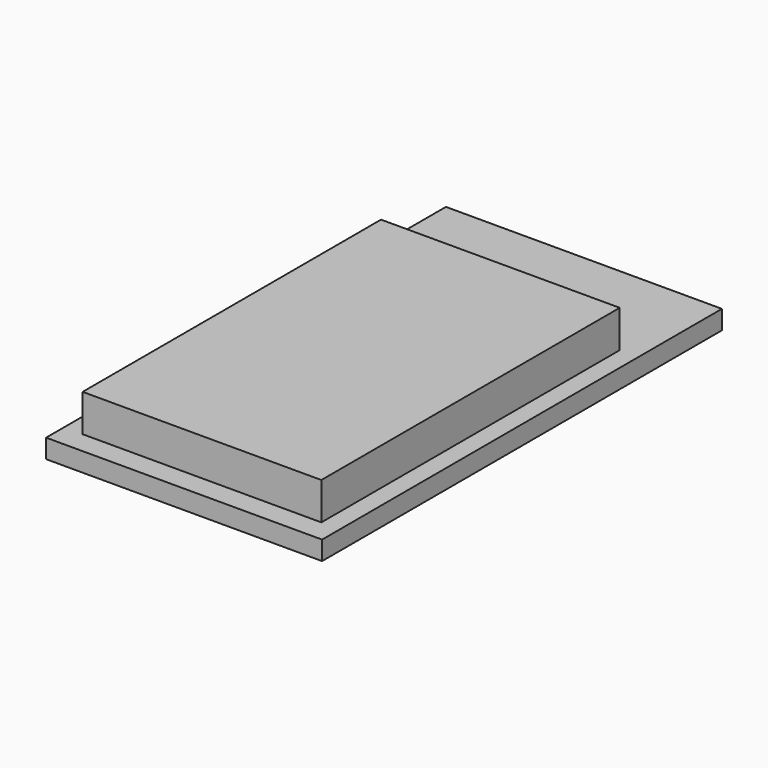
from build123d import *

# Parameters (mm, degrees)
F0_W     = 18.5
F0_H     = 33.5
F1_DEPTH = 0.635
F2_W     = 16
F2_H     = 25
F3_DEPTH = 2.5


with BuildPart() as f1:
    # F0 (on Top) → F1 (new body, symmetric)
    with BuildSketch(Plane.XY):
        Rectangle(F0_W, F0_H)
    extrude(amount=F1_DEPTH, both=True)


with BuildPart() as f3:
    # F2 (on face) → F3 (new body)
    with BuildSketch(Plane.XY.offset(0.635)):
        with Locations((0, -2.75)):
            Rectangle(F2_W, F2_H)
    extrude(amount=F3_DEPTH)


solid = Compound([f1.part, f3.part])
